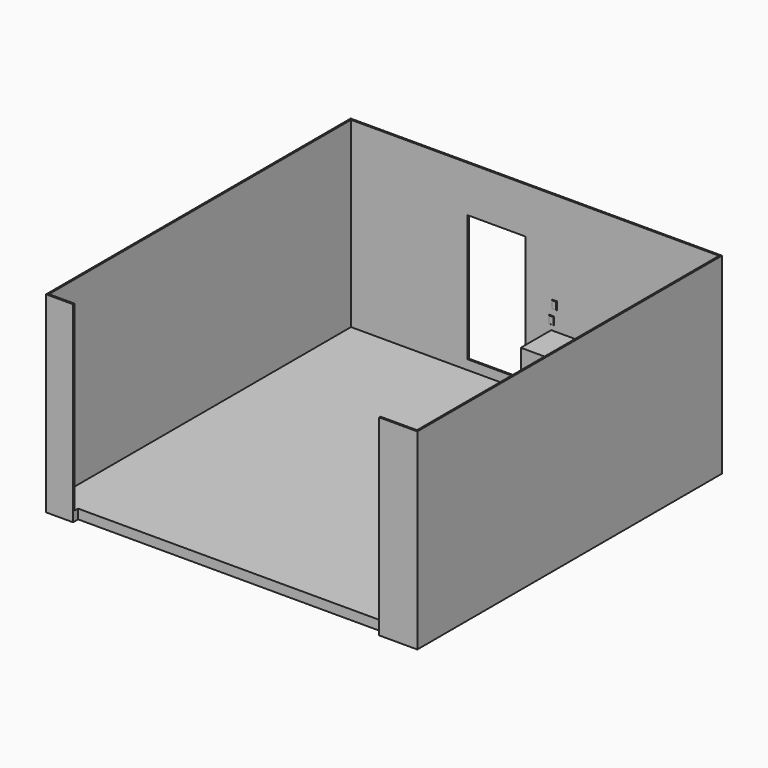
from build123d import *

# Parameters (mm, degrees)
F1_DEPTH      = 152.4
F3_DEPTH      = 2921
F3_DEPTH_BACK = 152.4
F4_W          = 927.1
F4_H          = 2032
F5_DEPTH      = 25.4
F6_W          = 82.55
F6_H          = 127
F7_DEPTH      = 9.525
F7_TAPER      = 35
F8_W          = 1828.8
F8_H          = 609.6
F9_DEPTH      = 1016
F10_W         = 800.1
F10_H         = 1219.2
F11_DEPTH     = 1016
F13_W         = 711.2
F13_H         = 2133.6
F14_DEPTH     = 1016
F15_W         = 711.2
F15_H         = 1270
F16_DEPTH     = 1016
F17_W         = 508
F17_H         = 1143
F18_DEPTH     = 1016


with BuildPart() as f1:
    # F0 (on Top) → F1 (new body)
    with BuildSketch(Plane.XY):
        Polygon((0, 6045.2), (0, 0), (406.4, 0), (406.4, 76.2), (5283.2, 76.2), (5283.2, 0), (5892.8, 0), (5892.8, 6045.2), align=None)
    extrude(amount=-F1_DEPTH)

    # F2 (on Top) → F3 (join, two sides)
    with BuildSketch(Plane.XY) as f3_sk:
        Polygon((406.4, 0), (0, 0), (0, 6045.2), (5892.8, 6045.2), (5892.8, 0), (5308.6, 0), (5308.6, -25.4), (5918.2, -25.4), (5918.2, 6070.6), (-25.4, 6070.6), (-25.4, -25.4), (406.4, -25.4), align=None)
    extrude(amount=F3_DEPTH)
    extrude(f3_sk.sketch, amount=-F3_DEPTH_BACK)

    # F4 (on face) → F5 (cut)
    with BuildSketch(Plane.XZ.offset(-6045.2)):
        with Locations((2330.45, 1168.4)):
            Rectangle(F4_W, F4_H)
    extrude(amount=-F5_DEPTH, mode=Mode.SUBTRACT)

    # F6 (on face) → F7 (join)
    with BuildSketch(Plane.XZ.offset(-6045.2)):
        with Locations((3212.465, 1143)):
            Rectangle(F6_W, F6_H)
        with Locations((4181.475, 1206.5)):
            Rectangle(F6_W, F6_H)
        with Locations((3256.915, 1371.6)):
            Rectangle(F6_W, F6_H)
        with Locations((5400.675, 1206.5)):
            Rectangle(F6_W, F6_H)
        with Locations((5299.075, 1206.5)):
            Rectangle(F6_W, F6_H)
    extrude(amount=F7_DEPTH, taper=F7_TAPER)


with BuildPart() as f9:
    # F8 (on face) → F9 (new body)
    with BuildSketch(Plane.XY):
        with Locations((4140.2, 5715)):
            Rectangle(F8_W, F8_H)
    extrude(amount=F9_DEPTH)


with BuildPart() as f11:
    # F10 (on face) → F11 (new body)
    with BuildSketch(Plane.XY):
        with Locations((5467.35, 5410.2)):
            Rectangle(F10_W, F10_H)
    extrude(amount=F11_DEPTH)


with BuildPart() as f14:
    # F13 (on face) → F14 (new body)
    with BuildSketch(Plane.XY):
        with Locations((5511.8, 3708.4)):
            Rectangle(F13_W, F13_H)
    extrude(amount=F14_DEPTH)


with BuildPart() as f16:
    # F15 (on face) → F16 (new body)
    with BuildSketch(Plane.XY):
        with Locations((5511.8, 1981.2)):
            Rectangle(F15_W, F15_H)
    extrude(amount=F16_DEPTH)


with BuildPart() as f18:
    # F17 (on face) → F18 (new body)
    with BuildSketch(Plane.XY):
        with Locations((5613.4, 749.3)):
            Rectangle(F17_W, F17_H)
    extrude(amount=F18_DEPTH)


solid = Compound([f1.part, f9.part, f11.part, f14.part, f16.part, f18.part])
